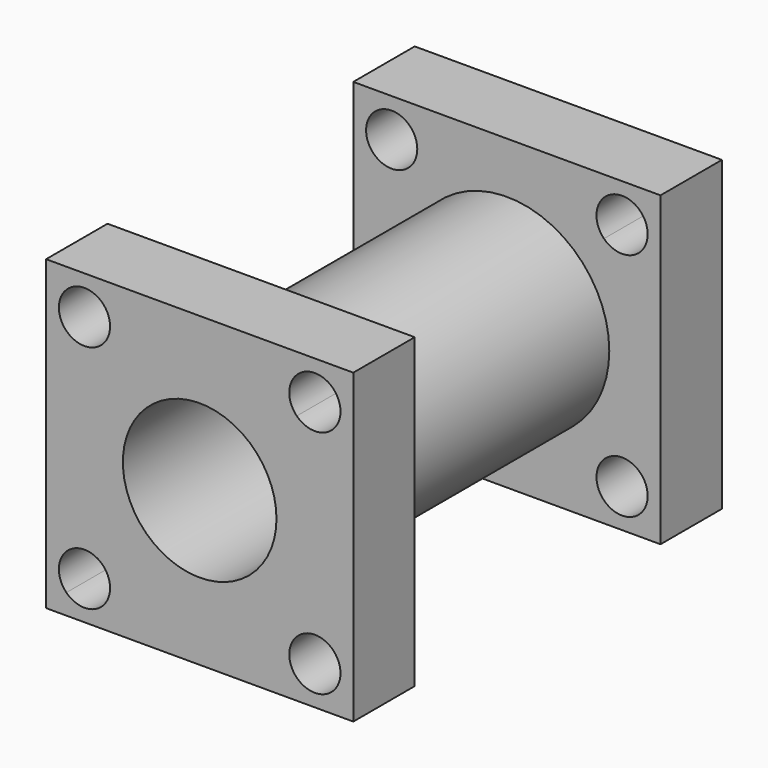
from build123d import *

# Parameters (mm, degrees)
F0_W     = 76.2
F0_H     = 76.2
F1_DEPTH = 19.05
F2_R     = 25.4
F3_DEPTH = 76.2
F4_W     = 76.2
F4_H     = 76.2
F4_R     = 25.4
F5_DEPTH = 19.05
F6_R     = 19.05
F7_DEPTH = 114.301
F9_DEPTH = 114.301


with BuildPart() as f1:
    # F0 (on Front) → F1 (new body)
    with BuildSketch(Plane.XZ):
        Rectangle(F0_W, F0_H)
    extrude(amount=F1_DEPTH)

    # F2 (on face) → F3 (join)
    with BuildSketch(Plane.XZ.offset(19.05)):
        Circle(F2_R)
    extrude(amount=F3_DEPTH)

    # F4 (on face) → F5 (join)
    with BuildSketch(Plane.XZ.offset(95.25)):
        Rectangle(F4_W, F4_H)
        Circle(F4_R, mode=Mode.SUBTRACT)
        Circle(F4_R)
    extrude(amount=F5_DEPTH)

    # F6 (on face) → F7 (cut, through all)
    with BuildSketch(Plane.XZ.offset(114.3)):
        Circle(F6_R)
    extrude(amount=-F7_DEPTH, mode=Mode.SUBTRACT)

    # F8 (on face) → F9 (cut, through all)
    with BuildSketch(Plane.XZ.offset(114.3)):
        with BuildLine():
            Line((-24.0848719395, 24.0848719395), (-33.0651280605, 33.0651280605))
            ThreePointArc((-33.0651280605, 33.0651280605), (-33.0651280605, 24.0848719395), (-24.0848719395, 24.0848719395))
        make_face()
        with BuildLine():
            ThreePointArc((-22.225, 28.575), (-26.1449602045, 34.4416350314), (-33.0651280605, 33.0651280605))
            Line((-33.0651280605, 33.0651280605), (-24.0848719395, 24.0848719395))
            ThreePointArc((-24.0848719395, 24.0848719395), (-22.7083649686, 26.1449602045), (-22.225, 28.575))
        make_face()
        with BuildLine():
            Line((-24.0848719395, -24.0848719395), (-33.0651280605, -33.0651280605))
            ThreePointArc((-33.0651280605, -33.0651280605), (-26.1449602045, -34.4416350314), (-22.225, -28.575))
            ThreePointArc((-22.225, -28.575), (-22.7083649686, -26.1449602045), (-24.0848719395, -24.0848719395))
        make_face()
        with BuildLine():
            ThreePointArc((-24.0848719395, -24.0848719395), (-33.0651280605, -24.0848719395), (-33.0651280605, -33.0651280605))
            Line((-33.0651280605, -33.0651280605), (-24.0848719395, -24.0848719395))
        make_face()
        with BuildLine():
            ThreePointArc((24.0848719395, -24.0848719395), (24.0848719395, -33.0651280605), (33.0651280605, -33.0651280605))
            Line((33.0651280605, -33.0651280605), (24.0848719395, -24.0848719395))
        make_face()
        with BuildLine():
            Line((24.0848719395, -24.0848719395), (33.0651280605, -33.0651280605))
            ThreePointArc((33.0651280605, -33.0651280605), (34.4416350314, -31.0050397955), (34.925, -28.575))
            ThreePointArc((34.925, -28.575), (31.0050397955, -22.7083649686), (24.0848719395, -24.0848719395))
        make_face()
        with BuildLine():
            ThreePointArc((34.925, 28.575), (34.4416350314, 31.0050397955), (33.0651280605, 33.0651280605))
            Line((33.0651280605, 33.0651280605), (24.0848719395, 24.0848719395))
            ThreePointArc((24.0848719395, 24.0848719395), (31.0050397955, 22.7083649686), (34.925, 28.575))
        make_face()
        with BuildLine():
            Line((24.0848719395, 24.0848719395), (33.0651280605, 33.0651280605))
            ThreePointArc((33.0651280605, 33.0651280605), (24.0848719395, 33.0651280605), (24.0848719395, 24.0848719395))
        make_face()
    extrude(amount=-F9_DEPTH, mode=Mode.SUBTRACT)


solid = f1.part
